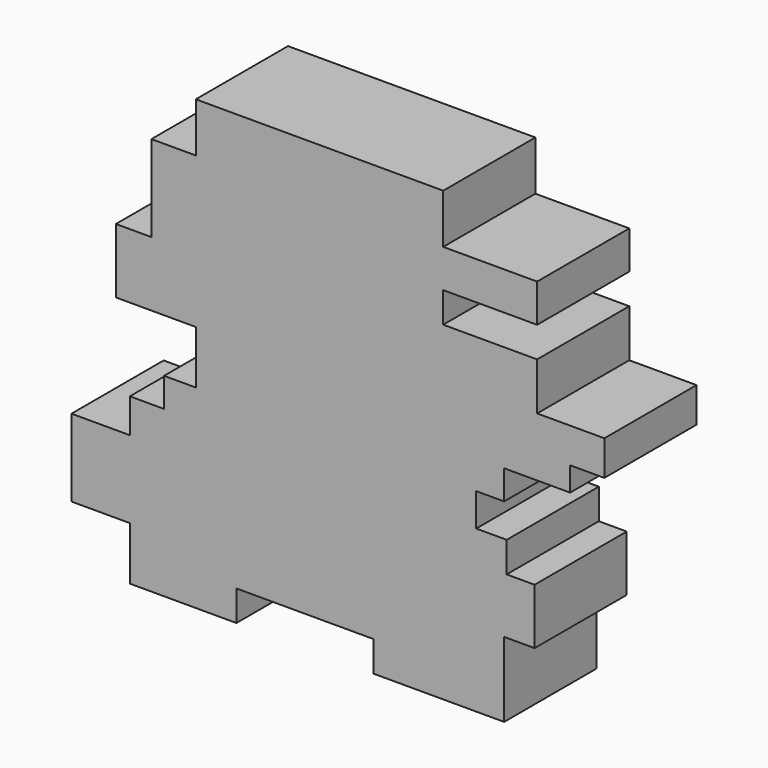
from build123d import *

# Parameters (mm, degrees)
F1_DEPTH = 25.4


with BuildPart() as f1:
    # F0 (on Front) → F1 (new body)
    with BuildSketch(Plane.XZ):
        Polygon((-28.674912, 25.597606), (-38.466346, 25.597606), (-38.466346, 17.204948), (-38.466346, 6.574248), (-46.299495, 6.574248), (-46.299495, -7.693269), (-28.674912, -7.693269), (-28.674912, -19.442989), (-35.668794, -19.442989), (-35.668794, -25.87736), (-43.222185, -25.87736), (-43.222185, -33.430751), (-56.090929, -33.430751), (-56.090929, -50.495822), (-43.222185, -50.495822), (-43.222185, -62.245544), (-19.722747, -62.245544), (-19.722747, -55.531416), (10.490823, -55.531416), (10.490823, -62.245544), (39.305612, -62.245544), (39.305612, -45.739986), (46.019737, -45.739986), (46.019737, -33.430751), (39.865121, -33.430751), (39.865121, -26.716627), (33.150997, -26.716627), (33.150997, -19.442989), (39.305612, -19.442989), (39.305612, -13.00862), (53.852882, -13.00862), (53.852882, -7.693269), (61.406281, -7.693269), (61.406281, 0), (46.579247, 0), (46.579247, 10.490822), (25.877364, 10.490822), (25.877364, 17.204948), (46.579245, 17.204948), (46.579245, 25.597606), (25.877364, 25.597606), (25.877364, 36.508061), (-28.674912, 36.508061), align=None)
    extrude(amount=F1_DEPTH)


solid = f1.part
